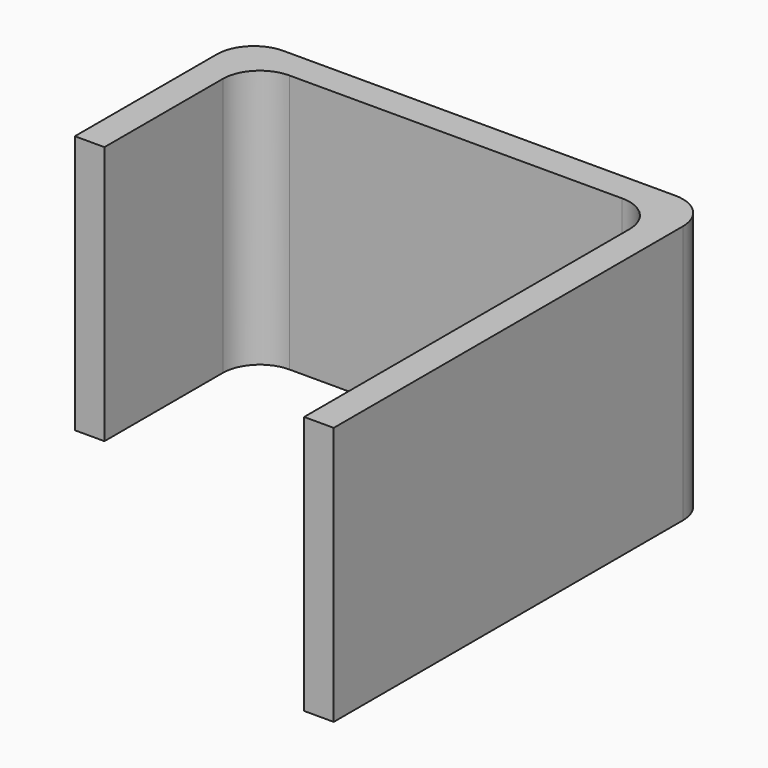
from build123d import *

# Parameters (mm, degrees)
F1_DEPTH = 35


with BuildPart() as f1:
    # F0 (on Top) → F1 (new body)
    with BuildSketch(Plane.XY):
        with BuildLine():
            ThreePointArc((-19.222415, 6.339756), (-17.757949, 9.87529), (-14.222415, 11.339756))
            Line((-14.222415, 11.339756), (30.777585, 11.339756))
            ThreePointArc((30.777585, 11.339756), (34.313119, 9.87529), (35.777585, 6.339756))
            Line((35.777585, 6.339756), (35.777585, -48.660244))
            Line((35.777585, -48.660244), (39.777585, -48.660244))
            Line((39.777585, -48.660244), (39.777585, 10.339756))
            ThreePointArc((39.777585, 10.339756), (38.313119, 13.87529), (34.777585, 15.339756))
            Line((34.777585, 15.339756), (-18.222415, 15.339756))
            ThreePointArc((-18.222415, 15.339756), (-21.757949, 13.87529), (-23.222415, 10.339756))
            Line((-23.222415, 10.339756), (-23.222415, -13.660244))
            Line((-23.222415, -13.660244), (-19.222415, -13.660244))
            Line((-19.222415, -13.660244), (-19.222415, 6.339756))
        make_face()
    extrude(amount=F1_DEPTH)


solid = f1.part
